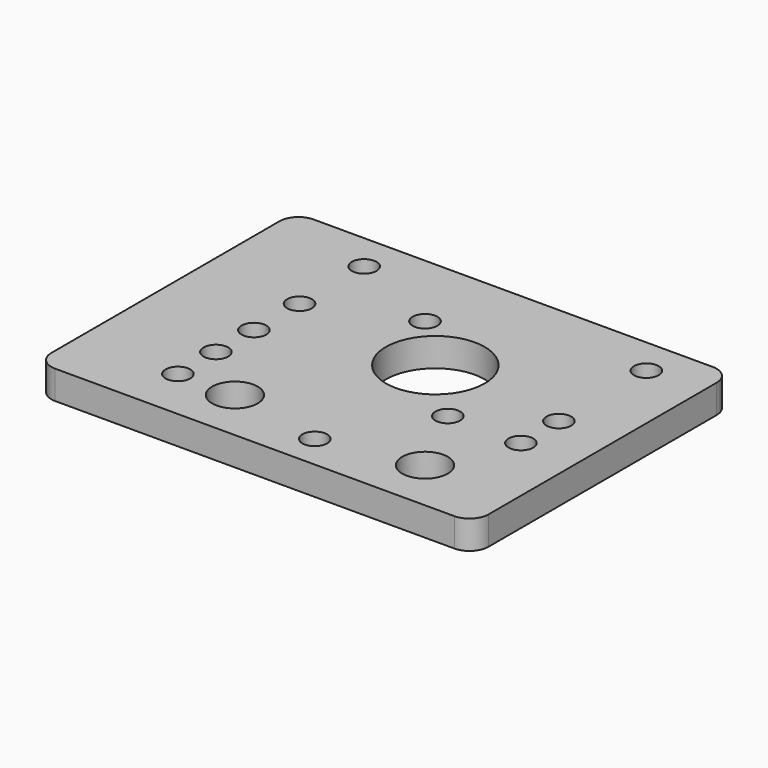
from build123d import *

# Parameters (mm, degrees)
F1_DEPTH  = 1.5
F3_R      = 1.2
F4_DEPTH  = 4
F5_R      = 0.65
F6_DEPTH  = 25
F7_R      = 0.65
F8_DEPTH  = 25
F9_R      = 0.65
F10_DEPTH = 25
F12_DEPTH = 25
F2_R      = 2.6
F13_DEPTH = 25
F11_R     = 0.65
F14_DEPTH = 25


with BuildPart() as f1:
    # F0 (on Top) → F1 (new body)
    with BuildSketch(Plane.XY):
        with BuildLine():
            Line((8.771231, 7.214553), (-12.228769, 7.214553))
            ThreePointArc((-12.228769, 7.214553), (-12.935876, 6.92166), (-13.228769, 6.214553))
            Line((-13.228769, 6.214553), (-13.228769, -8.785447))
            ThreePointArc((-13.228769, -8.785447), (-12.935876, -9.492553), (-12.228769, -9.785447))
            Line((-12.228769, -9.785447), (8.771231, -9.785447))
            ThreePointArc((8.771231, -9.785447), (9.478338, -9.492553), (9.771231, -8.785447))
            Line((9.771231, -8.785447), (9.771231, 6.214553))
            ThreePointArc((9.771231, 6.214553), (9.478338, 6.92166), (8.771231, 7.214553))
        make_face()
    extrude(amount=F1_DEPTH)

    # F3 (on face) → F4 (cut)
    with BuildSketch(Plane.XY.offset(1.5)):
        with Locations((-5, -7)):
            Circle(F3_R)
        with Locations((5, -7)):
            Circle(F3_R)
    extrude(amount=-F4_DEPTH, mode=Mode.SUBTRACT)

    # F5 (on face) → F6 (cut)
    with BuildSketch(Plane.XY.offset(1.5)):
        with Locations((-8, -7)):
            Circle(F5_R)
        with Locations((-8, -4.5)):
            Circle(F5_R)
        with Locations((-8, -2)):
            Circle(F5_R)
        with Locations((0, -8)):
            Circle(F5_R)
    extrude(amount=-F6_DEPTH, mode=Mode.SUBTRACT)

    # F7 (on face) → F8 (cut)
    with BuildSketch(Plane.XY.offset(1.5)):
        with Locations((6.845702, 5.25)):
            Circle(F7_R)
        with Locations((6.845702, -0.5)):
            Circle(F7_R)
        with Locations((6.845702, -3)):
            Circle(F7_R)
    extrude(amount=-F8_DEPTH, mode=Mode.SUBTRACT)

    # F9 (on face) → F10 (cut)
    with BuildSketch(Plane.XY.offset(1.5)):
        with Locations((-8, 5.25)):
            Circle(F9_R)
        with Locations((-8, 1)):
            Circle(F9_R)
    extrude(amount=-F10_DEPTH, mode=Mode.SUBTRACT)

    # F3 (on face) → F12 (cut)
    with BuildSketch(Plane.XY.offset(1.5)):
        with Locations((-5, -7)):
            Circle(F3_R)
        with Locations((5, -7)):
            Circle(F3_R)
    extrude(amount=-F12_DEPTH, mode=Mode.SUBTRACT)

    # F2 (on face) → F13 (cut)
    with BuildSketch(Plane.XY.offset(1.5)):
        with Locations((-0.228769, 0.214553)):
            Circle(F2_R)
    extrude(amount=-F13_DEPTH, mode=Mode.SUBTRACT)

    # F11 (on face) → F14 (cut)
    with BuildSketch(Plane.XY.offset(1.5)):
        with Locations((3, -3)):
            Circle(F11_R)
        with Locations((-3, 3)):
            Circle(F11_R)
    extrude(amount=-F14_DEPTH, mode=Mode.SUBTRACT)


solid = f1.part
